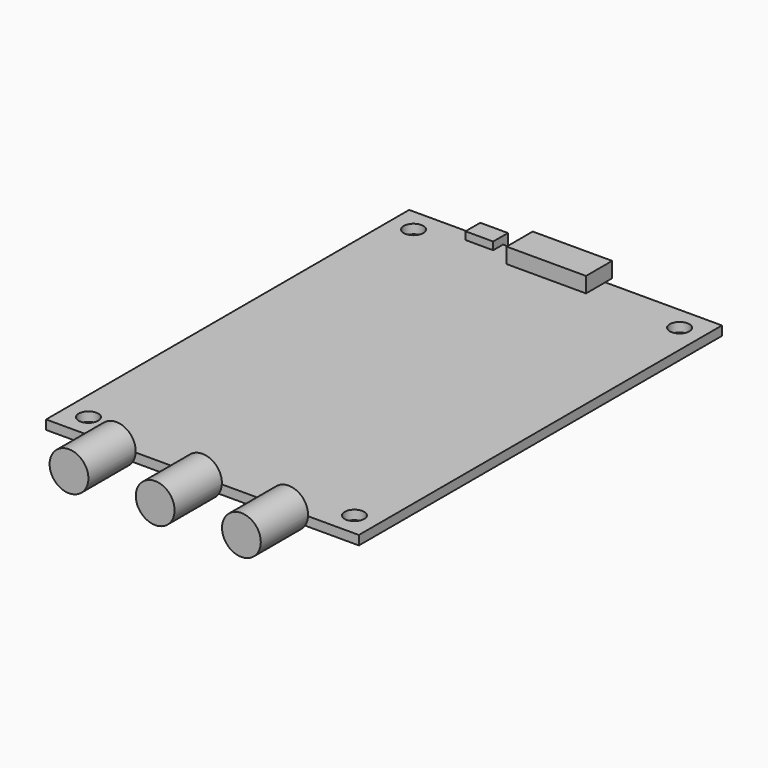
from build123d import *

# Parameters (mm, degrees)
F0_R          = 1.5875
F0_W          = 4.5
F0_H          = 2
F3_DEPTH      = 1.5
F4_START      = 36.85
F1_R          = 3.15
F4_DEPTH      = 9.6
F5_START      = -32.95
F2_W          = 12.9
F2_H          = 2.5
F5_DEPTH      = 5.3
F0_H_2        = 1
F6_DEPTH      = 2.75
F6_DEPTH_BACK = 0.75


with BuildPart() as f3:
    # F0 (on Top) → F3 (new body)
    with BuildSketch(Plane.XY):
        Polygon((-25.4, -36.85), (25.4, -36.85), (25.4, 36.85), (-10.15, 36.85), (-10.15, 34.85), (-14.65, 34.85), (-14.65, 36.85), (-25.4, 36.85), align=None)
        with Locations((-21.6, -33)):
            Circle(F0_R, mode=Mode.SUBTRACT)
        with Locations((21.6, -33)):
            Circle(F0_R, mode=Mode.SUBTRACT)
        with Locations((-21.6, 33)):
            Circle(F0_R, mode=Mode.SUBTRACT)
        with Locations((21.6, 33)):
            Circle(F0_R, mode=Mode.SUBTRACT)
        with Locations((-12.4, 35.85)):
            Rectangle(F0_W, F0_H)
    extrude(amount=F3_DEPTH)

    # F1 (on Front) → F4 (join)
    with BuildSketch(Plane.XZ.offset(F4_START)):
        with Locations((-14, 1.7)):
            Circle(F1_R)
        with Locations((0, 1.7)):
            Circle(F1_R)
        with Locations((14, 1.7)):
            Circle(F1_R)
    extrude(amount=F4_DEPTH)

    # F2 (on Front) → F5 (join)
    with BuildSketch(Plane.XZ.offset(F5_START)):
        with Locations((0, 2.75)):
            Rectangle(F2_W, F2_H)
    extrude(amount=-F5_DEPTH)

    # F0 (on Top) → F6 (join, two sides)
    with BuildSketch(Plane.XY) as f6_sk:
        with Locations((-12.4, 35.85)):
            Rectangle(F0_W, F0_H)
        with Locations((-12.4, 37.35)):
            Rectangle(F0_W, F0_H_2)
    extrude(amount=F6_DEPTH)
    extrude(f6_sk.sketch, amount=-F6_DEPTH_BACK)


solid = f3.part
